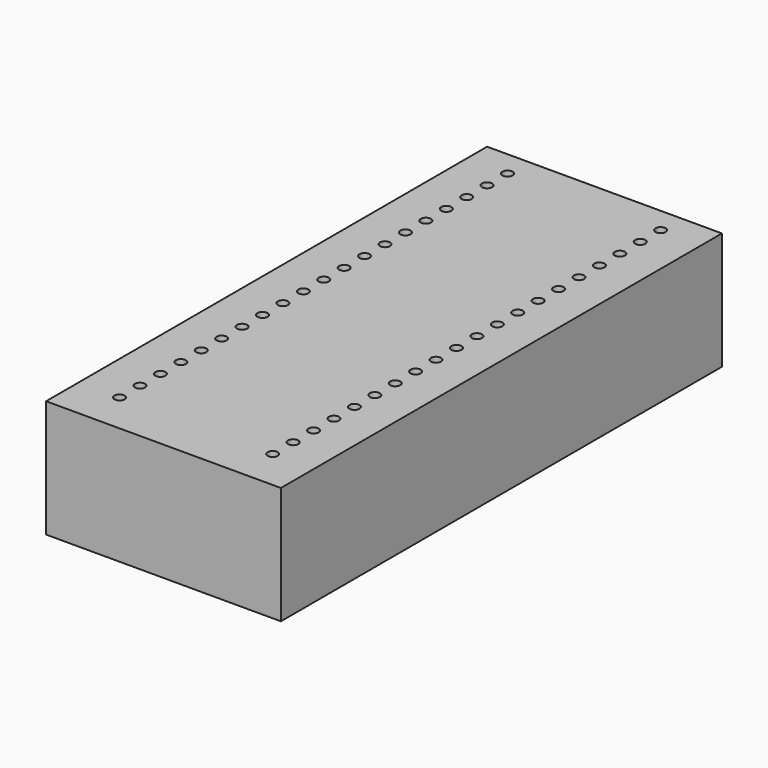
from build123d import *

# Parameters (mm, degrees)
SKETCH_W  = 23
SKETCH_H  = 54
SKETCH_R  = 0.5
PAD_DEPTH = 11.5


with BuildPart() as part:
    # Sketch → Pad (new body)
    with BuildSketch(Plane.XY):
        with Locations((11.5, -27)):
            Rectangle(SKETCH_W, SKETCH_H)
        with Locations((4, -2.5)):
            Circle(SKETCH_R, mode=Mode.SUBTRACT)
        with Locations((19, -2.5)):
            Circle(SKETCH_R, mode=Mode.SUBTRACT)
        with Locations((4, -5)):
            Circle(SKETCH_R, mode=Mode.SUBTRACT)
        with Locations((19, -5)):
            Circle(SKETCH_R, mode=Mode.SUBTRACT)
        with Locations((4, -7.5)):
            Circle(SKETCH_R, mode=Mode.SUBTRACT)
        with Locations((4, -10)):
            Circle(SKETCH_R, mode=Mode.SUBTRACT)
        with Locations((19, -7.5)):
            Circle(SKETCH_R, mode=Mode.SUBTRACT)
        with Locations((19, -10)):
            Circle(SKETCH_R, mode=Mode.SUBTRACT)
        with Locations((4, -12.5)):
            Circle(SKETCH_R, mode=Mode.SUBTRACT)
        with Locations((4, -15)):
            Circle(SKETCH_R, mode=Mode.SUBTRACT)
        with Locations((4, -17.5)):
            Circle(SKETCH_R, mode=Mode.SUBTRACT)
        with Locations((4, -20)):
            Circle(SKETCH_R, mode=Mode.SUBTRACT)
        with Locations((19, -12.5)):
            Circle(SKETCH_R, mode=Mode.SUBTRACT)
        with Locations((19, -15)):
            Circle(SKETCH_R, mode=Mode.SUBTRACT)
        with Locations((19, -17.5)):
            Circle(SKETCH_R, mode=Mode.SUBTRACT)
        with Locations((19, -20)):
            Circle(SKETCH_R, mode=Mode.SUBTRACT)
        with Locations((4, -22.5)):
            Circle(SKETCH_R, mode=Mode.SUBTRACT)
        with Locations((4, -25)):
            Circle(SKETCH_R, mode=Mode.SUBTRACT)
        with Locations((4, -27.5)):
            Circle(SKETCH_R, mode=Mode.SUBTRACT)
        with Locations((4, -30)):
            Circle(SKETCH_R, mode=Mode.SUBTRACT)
        with Locations((4, -32.5)):
            Circle(SKETCH_R, mode=Mode.SUBTRACT)
        with Locations((4, -35)):
            Circle(SKETCH_R, mode=Mode.SUBTRACT)
        with Locations((4, -37.5)):
            Circle(SKETCH_R, mode=Mode.SUBTRACT)
        with Locations((4, -40)):
            Circle(SKETCH_R, mode=Mode.SUBTRACT)
        with Locations((19, -22.5)):
            Circle(SKETCH_R, mode=Mode.SUBTRACT)
        with Locations((19, -25)):
            Circle(SKETCH_R, mode=Mode.SUBTRACT)
        with Locations((19, -27.5)):
            Circle(SKETCH_R, mode=Mode.SUBTRACT)
        with Locations((19, -30)):
            Circle(SKETCH_R, mode=Mode.SUBTRACT)
        with Locations((19, -32.5)):
            Circle(SKETCH_R, mode=Mode.SUBTRACT)
        with Locations((19, -35)):
            Circle(SKETCH_R, mode=Mode.SUBTRACT)
        with Locations((19, -37.5)):
            Circle(SKETCH_R, mode=Mode.SUBTRACT)
        with Locations((19, -40)):
            Circle(SKETCH_R, mode=Mode.SUBTRACT)
        with Locations((4, -42.5)):
            Circle(SKETCH_R, mode=Mode.SUBTRACT)
        with Locations((4, -45)):
            Circle(SKETCH_R, mode=Mode.SUBTRACT)
        with Locations((4, -47.5)):
            Circle(SKETCH_R, mode=Mode.SUBTRACT)
        with Locations((4, -50)):
            Circle(SKETCH_R, mode=Mode.SUBTRACT)
        with Locations((19, -42.5)):
            Circle(SKETCH_R, mode=Mode.SUBTRACT)
        with Locations((19, -45)):
            Circle(SKETCH_R, mode=Mode.SUBTRACT)
        with Locations((19, -47.5)):
            Circle(SKETCH_R, mode=Mode.SUBTRACT)
        with Locations((19, -50)):
            Circle(SKETCH_R, mode=Mode.SUBTRACT)
    extrude(amount=PAD_DEPTH)


solid = part.part
